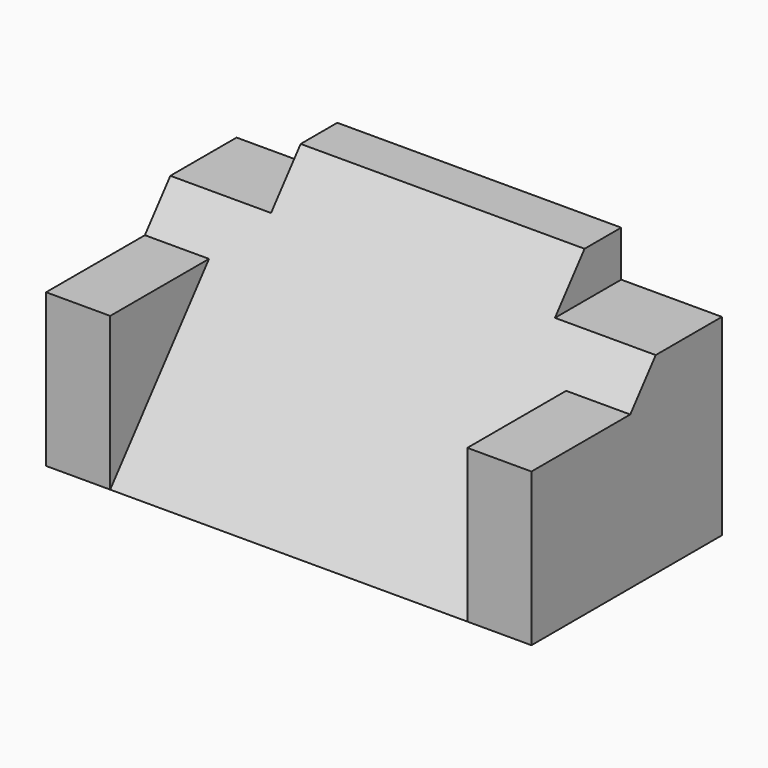
from build123d import *

# Parameters (mm, degrees)
PAD_DEPTH      = 26.5
PAD_DEPTH_BACK = 26.5
SKETCH001_W    = 5
SKETCH001_H    = 11
POCKET_DEPTH   = 10
SKETCH002_W    = 16.7
SKETCH002_H    = 7
PAD001_DEPTH   = 26


with BuildPart() as part:
    # Sketch → Pad (new body, two sides)
    with BuildSketch(Plane.YZ) as pad_sk:
        Polygon((-24.544346, 1.192678), (-50.544346, 1.192678), (-29.544346, 27.192678), (-24.544346, 27.192678), align=None)
    extrude(amount=PAD_DEPTH)
    extrude(pad_sk.sketch, amount=-PAD_DEPTH_BACK)

    # Sketch001 (on Face4 of Pad) → Pocket (cut)
    with BuildSketch(Plane.ZX.offset(-24.544346)):
        with Locations((24.692678, 21)):
            Rectangle(SKETCH001_W, SKETCH001_H)
    pocket = extrude(amount=-POCKET_DEPTH, mode=Mode.SUBTRACT)

    # Mirrored: Pocket across Sketch001 H_Axis
    add(pocket.mirror(Plane(origin=(0, -24.544346, 0), x_dir=(0, 1, 0), z_dir=(1, 0, 0))), mode=Mode.SUBTRACT)

    # Sketch002 (on Face2 of Mirrored) → Pad001 (join)
    with BuildSketch(Plane.ZX.offset(-24.544346)):
        with Locations((9.542678, 23)):
            Rectangle(SKETCH002_W, SKETCH002_H)
    pad001 = extrude(amount=-PAD001_DEPTH)

    # Mirrored001: Pad001 across Sketch002 H_Axis
    add(pad001.mirror(Plane(origin=(0, -24.544346, 0), x_dir=(0, 1, 0), z_dir=(1, 0, 0))))


solid = part.part
